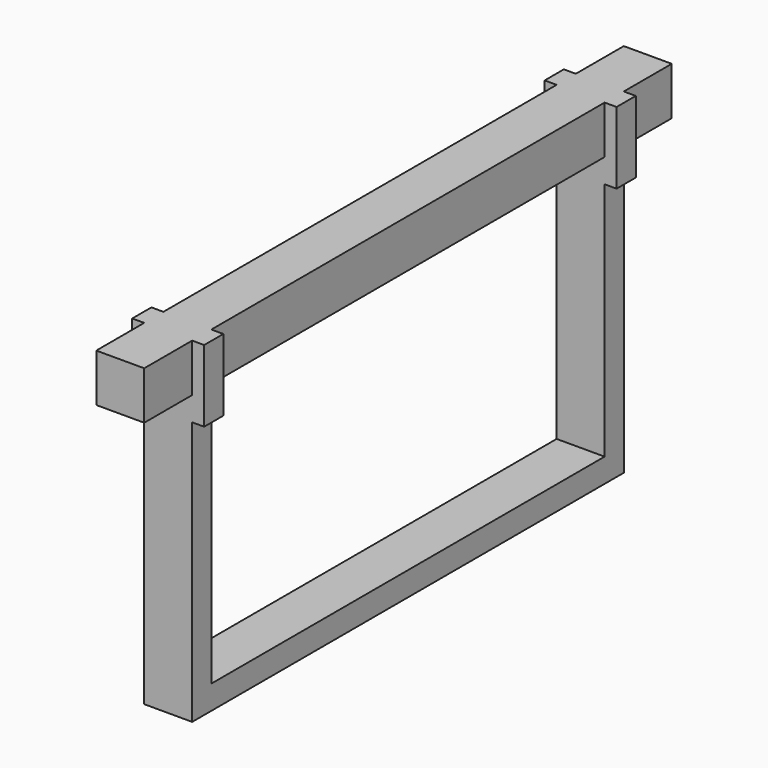
from build123d import *

# Parameters (mm, degrees)
F0_W      = 20
F0_H      = 275
F1_DEPTH  = 10
F3_W      = 20
F3_H      = 110
F3_H_2    = 20
F4_DEPTH  = 10
F6_W      = 20
F6_H      = 20
F6_H_2    = 110
F7_DEPTH  = 10
F8_W      = 20
F8_H      = 205
F9_DEPTH  = 10
F10_W     = 5
F10_H     = 220
F11_DEPTH = 15


with BuildPart() as f1:
    # F0 (on Top) → F1 (new body, symmetric)
    with BuildSketch(Plane.XY):
        Rectangle(F0_W, F0_H)
    extrude(amount=F1_DEPTH, both=True)

    # F3 (on offset) → F4 (join)
    with BuildSketch(Plane.XZ.offset(112.5)):
        with Locations((0, -75)):
            Rectangle(F3_W, F3_H)
        with Locations((0, -10)):
            Rectangle(F3_W, F3_H_2)
        Polygon((15, -20), (15, 10), (-15, 10), (-15, -20), (-10, -20), (-10, 0), (10, 0), (10, -20), align=None)
    extrude(amount=-F4_DEPTH)

    # F6 (on offset) → F7 (join)
    with BuildSketch(Plane(origin=(0, 112.5, 0), x_dir=(-1, 0, 0), z_dir=(0, 1, 0))):
        with Locations((0, -10)):
            Rectangle(F6_W, F6_H)
        with Locations((0, -75)):
            Rectangle(F6_W, F6_H_2)
        Polygon((15, -20), (15, 10), (-15, 10), (-15, -20), (-10, -20), (-10, 0), (10, 0), (10, -20), align=None)
    extrude(amount=-F7_DEPTH)

    # F8 (on face) → F9 (join)
    with BuildSketch(Plane(origin=(0, 0, -130), x_dir=(1, 0, 0), z_dir=(0, 0, -1))):
        Rectangle(F8_W, F8_H)
    extrude(amount=-F9_DEPTH)

    # F10 (on Top) → F11 (join)
    with BuildSketch(Plane.XY):
        Rectangle(F10_W, F10_H)
    extrude(amount=-F11_DEPTH)


solid = f1.part
